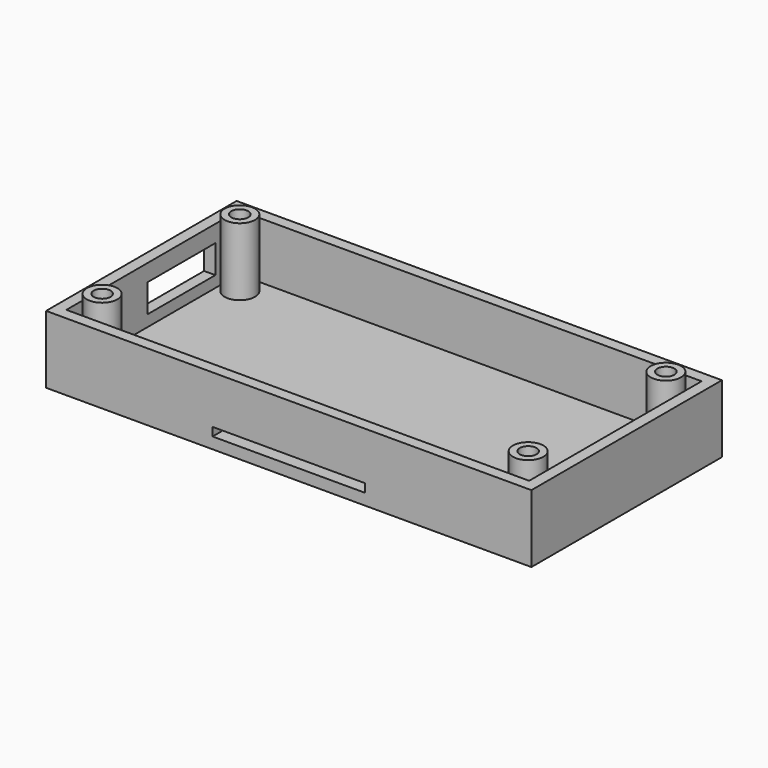
from build123d import *

# Parameters (mm, degrees)
BOX006_W        = 86
BOX006_H        = 42.2
BOX006_DEPTH    = 12
BOX007_W        = 82
BOX007_H        = 38.2
BOX007_DEPTH    = 10
SKETCH020_R     = 2.7
PAD016_DEPTH    = 14
SKETCH021_R     = 1.5
POCKET003_DEPTH = 14
BOX008_W        = 2
BOX008_H        = 15
BOX008_DEPTH    = 5
BOX009_W        = 27
BOX009_H        = 2
BOX009_DEPTH    = 1.5


with BuildPart() as part:
    # Box006 → Box006 (join)
    with BuildSketch(Plane.XY):
        with Locations((43, 21.1)):
            Rectangle(BOX006_W, BOX006_H)
    extrude(amount=BOX006_DEPTH)

    # Box007 → Box007 (cut)
    with BuildSketch(Plane(origin=(2, 2, 2), x_dir=(1, 0, 0), z_dir=(0, 0, 1))):
        with Locations((41, 19.1)):
            Rectangle(BOX007_W, BOX007_H)
    extrude(amount=BOX007_DEPTH, mode=Mode.SUBTRACT)

    # Sketch020 → Pad016 (join)
    with BuildSketch(Plane.XY):
        with Locations((5.25, 36.35)):
            Circle(SKETCH020_R)
        with Locations((80.75, 36.35)):
            Circle(SKETCH020_R)
        with Locations((80.75, 5.85)):
            Circle(SKETCH020_R)
        with Locations((5.25, 5.85)):
            Circle(SKETCH020_R)
    extrude(amount=PAD016_DEPTH)

    # Sketch021 → Pocket003 (cut)
    with BuildSketch(Plane.XY.offset(2)):
        with Locations((5.25, 36.35)):
            Circle(SKETCH021_R)
        with Locations((80.75, 36.35)):
            Circle(SKETCH021_R)
        with Locations((80.75, 5.85)):
            Circle(SKETCH021_R)
        with Locations((5.25, 5.85)):
            Circle(SKETCH021_R)
    extrude(amount=POCKET003_DEPTH, mode=Mode.SUBTRACT)

    # Box008 → Box008 (cut)
    with BuildSketch(Plane(origin=(0, 20, 4), x_dir=(1, 0, 0), z_dir=(0, 0, 1))):
        with Locations((1, 7.5)):
            Rectangle(BOX008_W, BOX008_H)
    extrude(amount=BOX008_DEPTH, mode=Mode.SUBTRACT)

    # Box009 → Box009 (cut)
    with BuildSketch(Plane(origin=(29.5, 0, 2), x_dir=(1, 0, 0), z_dir=(0, 0, 1))):
        with Locations((13.5, 1)):
            Rectangle(BOX009_W, BOX009_H)
    extrude(amount=BOX009_DEPTH, mode=Mode.SUBTRACT)


solid = part.part
